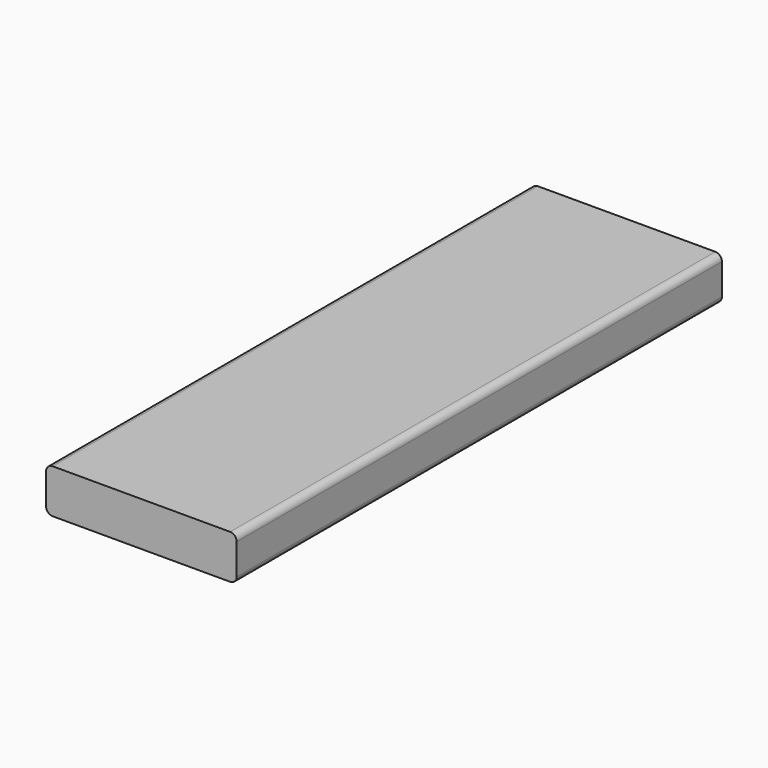
from build123d import *

# Parameters (mm, degrees)
F0_W     = 110
F0_H     = 350
F1_DEPTH = 12.7
F2_R     = 3.81


with BuildPart() as f1:
    # F0 (on Top) → F1 (new body, symmetric)
    with BuildSketch(Plane.XY):
        Rectangle(F0_W, F0_H)
    extrude(amount=F1_DEPTH, both=True)

    # F2
    f2_edges = [f1.edges().sort_by_distance(p)[0] for p in [
        (55, 0, 12.7),
        (55, 0, -12.7),
        (-55, 0, 12.7),
        (-55, 0, -12.7),
    ]]
    fillet(f2_edges, radius=F2_R)


solid = f1.part
